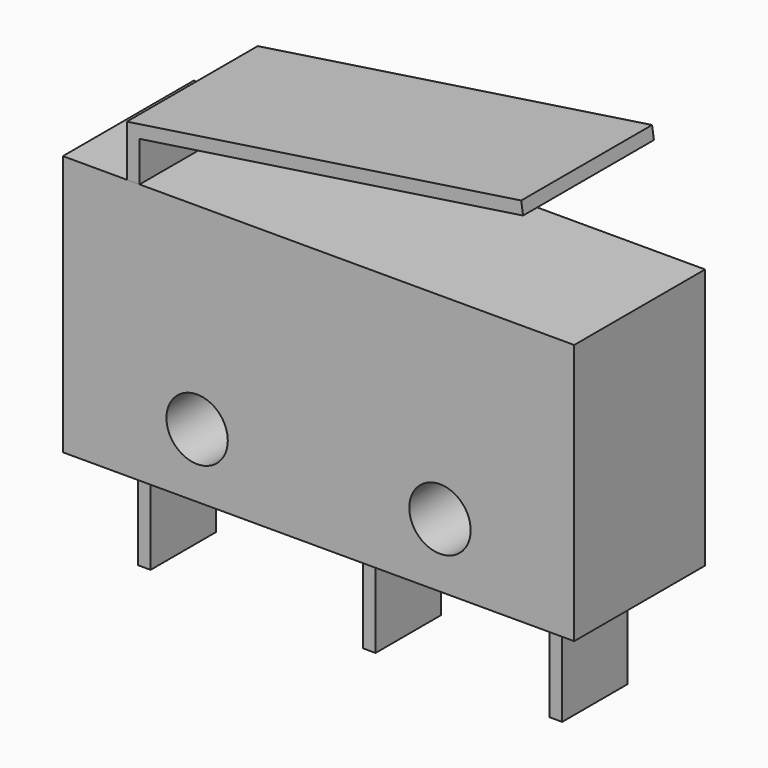
from build123d import *

# Parameters (mm, degrees)
F0_W     = 20
F0_H     = 10.2
F1_DEPTH = 6.4
F2_R     = 1.2
F3_DEPTH = 25
F5_DEPTH = 6.4
F6_W     = 0.5
F6_H     = 3.2
F7_DEPTH = 4


with BuildPart() as f1:
    # F0 (on Front) → F1 (new body)
    with BuildSketch(Plane.XZ):
        Rectangle(F0_W, F0_H)
    extrude(amount=F1_DEPTH)

    # F2 (on face) → F3 (cut)
    with BuildSketch(Plane.XZ.offset(6.4)):
        with Locations((-4.75, -2.6)):
            Circle(F2_R)
        with Locations((4.75, -2.6)):
            Circle(F2_R)
    extrude(amount=-F3_DEPTH, mode=Mode.SUBTRACT)


with BuildPart() as f5:
    # F4 (on face) → F5 (new body)
    with BuildSketch(Plane.XZ.offset(6.4)):
        Polygon((7.926267, 9.4), (-7.5, 7.1), (-7.5, 5.1), (-7, 5.1), (-7, 6.669021), (8, 8.905466), align=None)
    extrude(amount=-F5_DEPTH)


with BuildPart() as f7:
    # F6 (on face) → F7 (new body)
    with BuildSketch(Plane(origin=(0, 0, -5.1), x_dir=(1, 0, 0), z_dir=(0, 0, -1))):
        with Locations((-8.1, 3.2)):
            Rectangle(F6_W, F6_H)
        with Locations((0.7, 3.2)):
            Rectangle(F6_W, F6_H)
        with Locations((8, 3.2)):
            Rectangle(F6_W, F6_H)
    extrude(amount=F7_DEPTH)


solid = Compound([f1.part, f5.part, f7.part])
